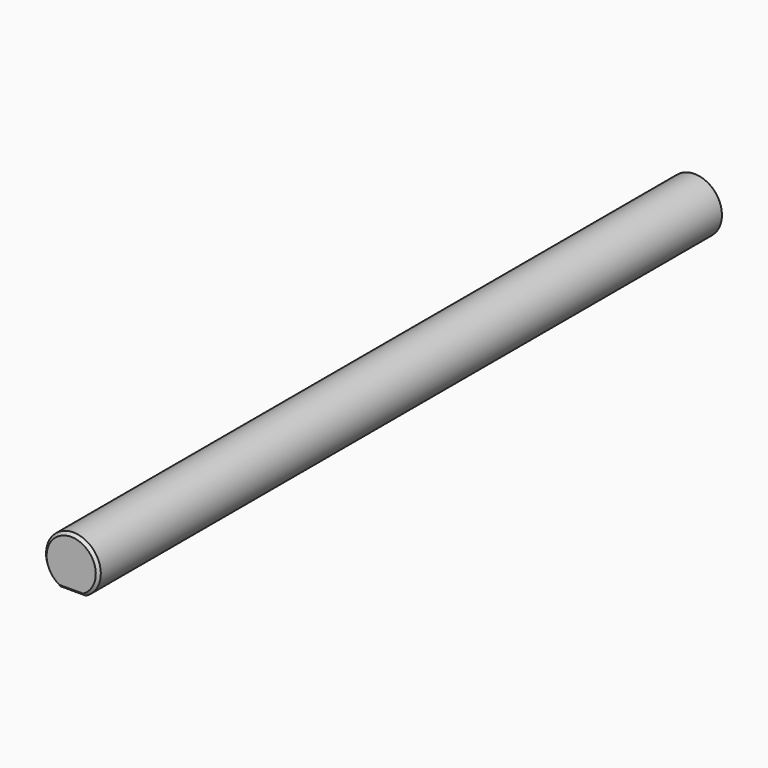
from build123d import *

# Parameters (mm, degrees)
PAD_DEPTH    = 140
CHAMFER_SIZE = 1


with BuildPart() as part:
    # Sketch → Pad (new body, symmetric)
    with BuildSketch(Plane.XZ):
        with BuildLine():
            ThreePointArc((4.5, 0), (0, 18.505745), (-4.5, 0))
            Line((-4.5, 0), (4.5, 0))
        make_face()
    extrude(amount=PAD_DEPTH, both=True)

    # Chamfer
    chamfer_edges = [part.edges().sort_by_distance(p)[0] for p in [
        (0, -140, 18.505745),
        (0, -140, 0),
        (0, 140, 18.505745),
        (0, 140, 0),
    ]]
    chamfer(chamfer_edges, length=CHAMFER_SIZE)


solid = part.part
